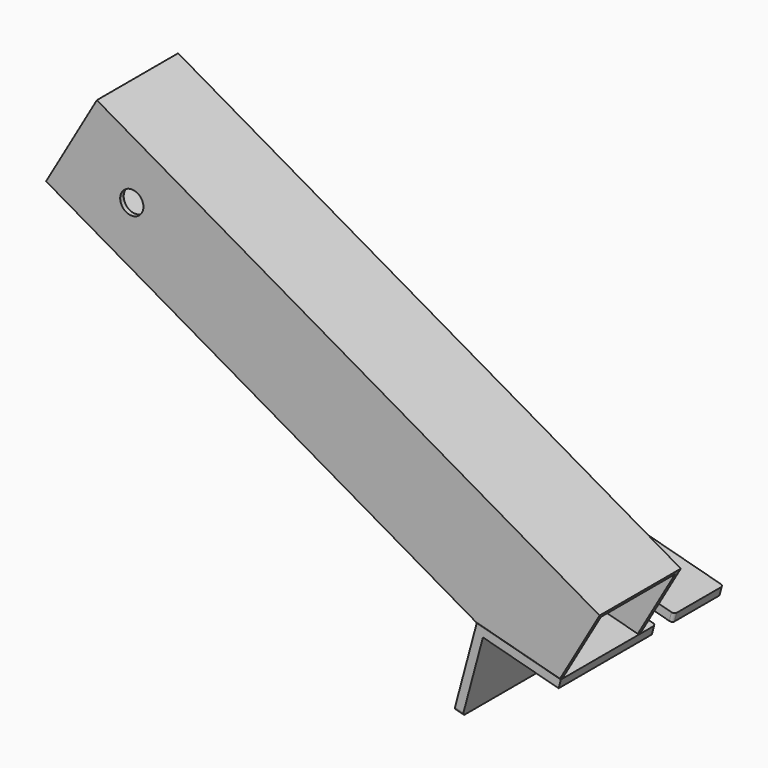
from build123d import *

# Parameters (mm, degrees)
BOX018_W                  = 8.3
BOX018_H                  = 10
BOX018_DEPTH              = 11
BOX018_PITCH_ANGLE        = 15
BOX017_W                  = 26
BOX017_H                  = 8
BOX017_DEPTH              = 24
FILLET015_R               = 4
FILLET015_PITCH_ANGLE     = 15
CYLINDER001_R             = 4
CYLINDER001_DEPTH         = 50
CYLINDER001_ROLL_ANGLE    = 90
BOX007_W                  = 30
BOX007_H                  = 52
BOX007_DEPTH              = 30
BOX007_PITCH_ANGLE        = 15
BOX006_W                  = 200
BOX006_H                  = 32
BOX006_DEPTH              = 32
BOX005_W                  = 200
BOX005_H                  = 35
BOX005_DEPTH              = 35
CUT006_PLACEMENT_ANGLE    = 180
CYLINDER_R                = 4.2
CYLINDER_DEPTH            = 10
BOX004_W                  = 70
BOX004_H                  = 27
BOX004_DEPTH              = 27
BOX003_W                  = 70
BOX003_H                  = 30
BOX003_DEPTH              = 30
CUT003_ROLL_ANGLE         = -14.999959
CUT003_PITCH_ANGLE        = 1e-06
CUT003_PLACEMENT_ANGLE    = 90.000005
FUSION003_PLACEMENT_ANGLE = 30
FILLET016_R               = 1
FILLET017_R               = 1
FILLET018_R               = 1
FILLET019_R               = 1


with BuildPart() as cube018:
    # Box018 → Box018 (new body)
    with BuildSketch(Plane.XY):
        with Locations((4.15, 5)):
            Rectangle(BOX018_W, BOX018_H)
    extrude(amount=BOX018_DEPTH)


with BuildPart() as cube018_1:
    # Box018 pitch: moved
    add(cube018.part.rotate(Axis((0, 0, 0), (0, 1, 0)), BOX018_PITCH_ANGLE))


with BuildPart() as cube018_2:
    # Box018 placement: moved
    add(cube018_1.part.moved(Location((140.6, 28, -96))))


with BuildPart() as fusion013:
    # Box017 → Box017 (new body)
    with BuildSketch(Plane(origin=(146, 22, -105), x_dir=(1, 0, 0), z_dir=(0, 0, 1))):
        with Locations((13, 4)):
            Rectangle(BOX017_W, BOX017_H)
    extrude(amount=BOX017_DEPTH)

    # Fillet015
    fillet015_edges = [fusion013.edges().sort_by_distance(p)[0] for p in [
        (146, 22, -93),
    ]]
    fillet(fillet015_edges, radius=FILLET015_R)


with BuildPart() as fusion013_1:
    # Fillet015 pitch: moved
    add(fusion013.part.rotate(Axis((0, 0, 0), (0, 1, 0)), FILLET015_PITCH_ANGLE))


with BuildPart() as fusion013_2:
    # Fillet015 placement: moved
    add(fusion013_1.part.moved(Location((25.3, 1, 38))))

    # Fusion013: union Cube018
    add(cube018_2.part)


with BuildPart() as cylindre001:
    # Cylinder001 → Cylinder001 (new body)
    with BuildSketch(Plane.XY):
        Circle(CYLINDER001_R)
    extrude(amount=CYLINDER001_DEPTH)


with BuildPart() as cylindre001_1:
    # Cylinder001 roll: moved
    add(cylindre001.part.rotate(Axis((0, 0, 0), (1, 0, 0)), CYLINDER001_ROLL_ANGLE))


with BuildPart() as cylindre001_2:
    # Cylinder001 placement: moved
    add(cylindre001_1.part.moved(Location((176, 42, 17.5))))


with BuildPart() as cube007:
    # Box007 → Box007 (new body)
    with BuildSketch(Plane.XY):
        with Locations((15, 26)):
            Rectangle(BOX007_W, BOX007_H)
    extrude(amount=BOX007_DEPTH)


with BuildPart() as cube007_1:
    # Box007 pitch: moved
    add(cube007.part.rotate(Axis((0, 0, 0), (0, 1, 0)), BOX007_PITCH_ANGLE))


with BuildPart() as cube007_2:
    # Box007 placement: moved
    add(cube007_1.part.moved(Location((-8, -14, -21.18))))


with BuildPart() as cube006:
    # Box006 → Box006 (new body)
    with BuildSketch(Plane(origin=(0, 1.5, 1.5), x_dir=(1, 0, 0), z_dir=(0, 0, 1))):
        with Locations((100, 16)):
            Rectangle(BOX006_W, BOX006_H)
    extrude(amount=BOX006_DEPTH)


with BuildPart() as cut006:
    # Box005 → Box005 (new body)
    with BuildSketch(Plane.XY):
        with Locations((100, 17.5)):
            Rectangle(BOX005_W, BOX005_H)
    extrude(amount=BOX005_DEPTH)

    # Cut004: cut Cube006
    add(cube006.part, mode=Mode.SUBTRACT)

    # Cut005: cut Cube007
    add(cube007_2.part, mode=Mode.SUBTRACT)

    # Cut006: cut Cylindre001
    add(cylindre001_2.part, mode=Mode.SUBTRACT)


with BuildPart() as cut006_1:
    # Cut006 placement: moved
    add(cut006.part.moved(Location((189.343539, 17.069198, -13.822069))).rotate(Axis((189.343539, 17.069198, -13.822069), (0, 0, 1)), CUT006_PLACEMENT_ANGLE))


with BuildPart() as cylindre:
    # Cylinder → Cylinder (new body)
    with BuildSketch(Plane(origin=(56, 15, 26), x_dir=(1, 0, 0), z_dir=(0, 0, 1))):
        Circle(CYLINDER_R)
    extrude(amount=CYLINDER_DEPTH)


with BuildPart() as cube004:
    # Box004 → Box004 (new body)
    with BuildSketch(Plane.XY):
        with Locations((35, 13.5)):
            Rectangle(BOX004_W, BOX004_H)
    extrude(amount=BOX004_DEPTH)


with BuildPart() as fillet019:
    # Box003 → Box003 (new body)
    with BuildSketch(Plane.XY):
        with Locations((35, 15)):
            Rectangle(BOX003_W, BOX003_H)
    extrude(amount=BOX003_DEPTH)

    # Cut002: cut Cube004
    add(cube004.part, mode=Mode.SUBTRACT)

    # Cut003: cut Cylindre
    add(cylindre.part, mode=Mode.SUBTRACT)


with BuildPart() as fillet019_1:
    # Cut003 roll: moved
    add(fillet019.part.rotate(Axis((0, 0, 0), (1, 0, 0)), CUT003_ROLL_ANGLE))


with BuildPart() as fillet019_2:
    # Cut003 pitch: moved
    add(fillet019_1.part.rotate(Axis((0, 0, 0), (0, 1, 0)), CUT003_PITCH_ANGLE))


with BuildPart() as fillet019_3:
    # Cut003 placement: moved
    add(fillet019_2.part.moved(Location((197.429, -17.8616, -35.1226))).rotate(Axis((197.429, -17.8616, -35.1226), (0, 0, 1)), CUT003_PLACEMENT_ANGLE))

    # Fusion003: union Cut006
    add(cut006_1.part)


with BuildPart() as fillet019_4:
    # Fusion003 placement: moved
    add(fillet019_3.part.moved(Location((0.058657, 0, 7.218911))).rotate(Axis((0.058657, 0, 7.218911), (0, 1, 0)), FUSION003_PLACEMENT_ANGLE))

    # Cut022: cut Fusion013
    add(fusion013_2.part, mode=Mode.SUBTRACT)

    # Fillet016
    fillet016_edges = [fillet019_4.edges().sort_by_distance(p)[0] for p in [
        (150.377887, 31, -91.577167),
    ]]
    fillet(fillet016_edges, radius=FILLET016_R)

    # Fillet017
    fillet017_edges = [fillet019_4.edges().sort_by_distance(p)[0] for p in [
        (160.852245, 31, -94.38377),
        (160.852243, 52.1384, -94.38377),
        (160.852246, 23, -94.383771),
    ]]
    fillet(fillet017_edges, radius=FILLET017_R)

    # Fillet018
    fillet018_edges = [fillet019_4.edges().sort_by_distance(p)[0] for p in [
        (125.947, 52.138398, -114.536288),
    ]]
    fillet(fillet018_edges, radius=FILLET018_R)

    # Fillet019
    fillet019_edges = [fillet019_4.edges().sort_by_distance(p)[0] for p in [
        (125.947006, -17.861602, -114.53629),
    ]]
    fillet(fillet019_edges, radius=FILLET019_R)


solid = fillet019_4.part
